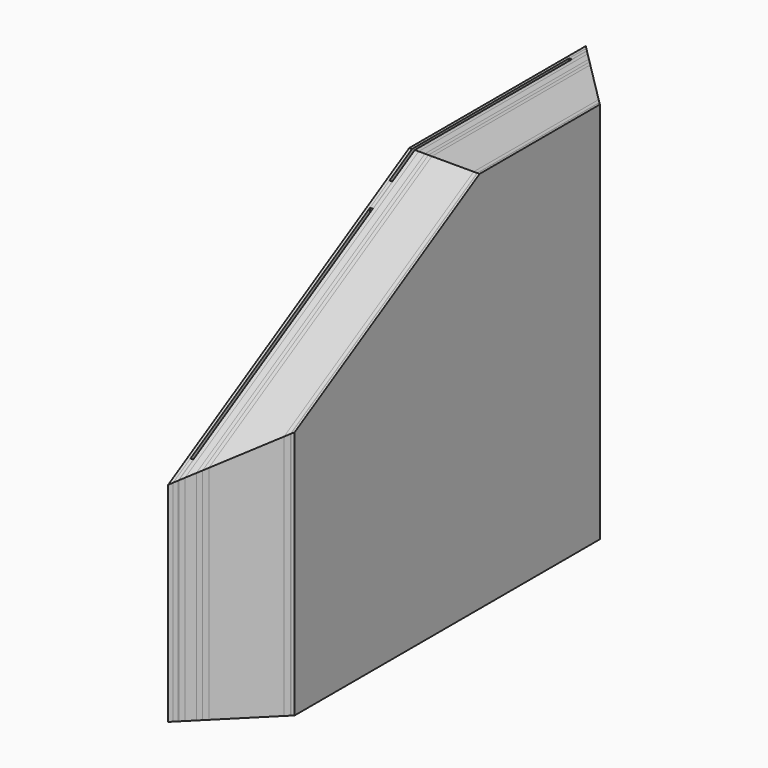
from build123d import *

# Parameters (mm, degrees)
F1_DEPTH  = 6
F2_DEPTH  = 1
F3_DEPTH  = 10
F4_DEPTH  = 120
F5_DEPTH  = 10
F6_DEPTH  = 10
F7_DEPTH  = 18
F8_DEPTH  = 10
F9_DEPTH  = 1
F10_W     = 70
F10_H     = 1100
F11_DEPTH = 8
F13_DEPTH = 8
F15_DEPTH = 1100.001
F17_DEPTH = 1100.001


with BuildPart() as f1:
    # F0 (on Right) → F1 (new body)
    with BuildSketch(Plane.YZ):
        Polygon((0, 600), (0, 0), (1500, 0), (1500, 1100), (866.0254037844, 1100), align=None)
    extrude(amount=F1_DEPTH)


with BuildPart() as f2:
    # F2 (new): a face of the model
    f2_faces = [f1.part.faces().sort_by_distance(p)[0] for p in [
        (0, 819.6757626206, 492.1036143057),
    ]]
    extrude(f2_faces, amount=F2_DEPTH)


with BuildPart() as f3:
    # F3 (new): a face of the model
    f3_faces = [f2.part.faces().sort_by_distance(p)[0] for p in [
        (-1, 819.6757626206, 492.1036143057),
    ]]
    extrude(f3_faces, amount=F3_DEPTH)


with BuildPart() as f4:
    # F4 (new): a face of the model
    f4_faces = [f3.part.faces().sort_by_distance(p)[0] for p in [
        (-11, 819.6757626206, 492.1036143057),
    ]]
    extrude(f4_faces, amount=F4_DEPTH)


with BuildPart() as f5:
    # F5 (new): a face of the model
    f5_faces = [f4.part.faces().sort_by_distance(p)[0] for p in [
        (-131, 819.6757626206, 492.1036143057),
    ]]
    extrude(f5_faces, amount=F5_DEPTH)


with BuildPart() as f6:
    # F6 (new): a face of the model
    f6_faces = [f5.part.faces().sort_by_distance(p)[0] for p in [
        (-141, 819.6757626206, 492.1036143057),
    ]]
    extrude(f6_faces, amount=F6_DEPTH)


with BuildPart() as f7:
    # F7 (new): a face of the model
    f7_faces = [f6.part.faces().sort_by_distance(p)[0] for p in [
        (-151, 819.6757626206, 492.1036143057),
    ]]
    extrude(f7_faces, amount=F7_DEPTH)


with BuildPart() as f8:
    # F8 (new): a face of the model
    f8_faces = [f7.part.faces().sort_by_distance(p)[0] for p in [
        (-169, 819.6757626206, 492.1036143057),
    ]]
    extrude(f8_faces, amount=F8_DEPTH)


with BuildPart() as f9:
    # F9 (new): a face of the model
    f9_faces = [f8.part.faces().sort_by_distance(p)[0] for p in [
        (-179, 819.6757626206, 492.1036143057),
    ]]
    extrude(f9_faces, amount=F9_DEPTH)


with BuildPart() as f11:
    # F10 (on face) → F11 (new body)
    with BuildSketch(Plane(origin=(-180, 0, 0), x_dir=(0, -1, 0), z_dir=(-1, 0, 0))):
        with Locations((-1465, 550)):
            Rectangle(F10_W, F10_H)
    extrude(amount=F11_DEPTH)


with BuildPart() as f11b:
    # F10 (on face) → F11, piece 2 (new body)
    with BuildSketch(Plane(origin=(-180, 0, 0), x_dir=(0, -1, 0), z_dir=(-1, 0, 0))):
        Polygon((-785, 1053.2199613139), (-785, 0), (-715, 0), (-715, 1012.8054424706), align=None)
    extrude(amount=F11_DEPTH)


with BuildPart() as f11c:
    # F10 (on face) → F11, piece 3 (new body)
    with BuildSketch(Plane(origin=(-180, 0, 0), x_dir=(0, -1, 0), z_dir=(-1, 0, 0))):
        Polygon((-70, 640.4145188433), (-70, 0), (0, 0), (0, 600), align=None)
    extrude(amount=F11_DEPTH)


with BuildPart() as f13:
    # F12 (on face) → F13 (new body)
    with BuildSketch(Plane(origin=(-188, 0, 0), x_dir=(0, -1, 0), z_dir=(-1, 0, 0))):
        Polygon((-866.0254037844, 1100), (-1500, 1100), (-1500, 0), (0, 0), (0, 600), align=None)
    extrude(amount=F13_DEPTH)


with BuildPart() as f15_tool:
    # F14 (on face) → F15 (new body, through all)
    with BuildSketch(Plane.XY.offset(1100)):
        Polygon((6, 1500), (-196, 1500), (6, 1298), align=None)
    extrude(amount=-F15_DEPTH)


with BuildPart() as f1_1:
    add(f1.part)

    # F15: cut by f15_tool
    add(f15_tool.part, mode=Mode.SUBTRACT)


with BuildPart() as f2_1:
    add(f2.part)

    # F15: cut by f15_tool
    add(f15_tool.part, mode=Mode.SUBTRACT)


with BuildPart() as f3_1:
    add(f3.part)

    # F15: cut by f15_tool
    add(f15_tool.part, mode=Mode.SUBTRACT)


with BuildPart() as f4_1:
    add(f4.part)

    # F15: cut by f15_tool
    add(f15_tool.part, mode=Mode.SUBTRACT)


with BuildPart() as f5_1:
    add(f5.part)

    # F15: cut by f15_tool
    add(f15_tool.part, mode=Mode.SUBTRACT)


with BuildPart() as f6_1:
    add(f6.part)

    # F15: cut by f15_tool
    add(f15_tool.part, mode=Mode.SUBTRACT)


with BuildPart() as f7_1:
    add(f7.part)

    # F15: cut by f15_tool
    add(f15_tool.part, mode=Mode.SUBTRACT)


with BuildPart() as f8_1:
    add(f8.part)

    # F15: cut by f15_tool
    add(f15_tool.part, mode=Mode.SUBTRACT)


with BuildPart() as f9_1:
    add(f9.part)

    # F15: cut by f15_tool
    add(f15_tool.part, mode=Mode.SUBTRACT)


with BuildPart() as f11_1:
    add(f11.part)

    # F15: cut by f15_tool
    add(f15_tool.part, mode=Mode.SUBTRACT)


with BuildPart() as f13_1:
    add(f13.part)

    # F15: cut by f15_tool
    add(f15_tool.part, mode=Mode.SUBTRACT)


with BuildPart() as f17_tool:
    # F16 (on face) → F17 (new body, through all)
    with BuildSketch(Plane(origin=(0, 0, 0), x_dir=(1, 0, 0), z_dir=(0, 0, -1))):
        Polygon((6, 0), (-196, 0), (6, -202), align=None)
    extrude(amount=-F17_DEPTH)


with BuildPart() as f1_2:
    add(f1_1.part)

    # F17: cut by f17_tool
    add(f17_tool.part, mode=Mode.SUBTRACT)


with BuildPart() as f2_2:
    add(f2_1.part)

    # F17: cut by f17_tool
    add(f17_tool.part, mode=Mode.SUBTRACT)


with BuildPart() as f3_2:
    add(f3_1.part)

    # F17: cut by f17_tool
    add(f17_tool.part, mode=Mode.SUBTRACT)


with BuildPart() as f4_2:
    add(f4_1.part)

    # F17: cut by f17_tool
    add(f17_tool.part, mode=Mode.SUBTRACT)


with BuildPart() as f5_2:
    add(f5_1.part)

    # F17: cut by f17_tool
    add(f17_tool.part, mode=Mode.SUBTRACT)


with BuildPart() as f6_2:
    add(f6_1.part)

    # F17: cut by f17_tool
    add(f17_tool.part, mode=Mode.SUBTRACT)


with BuildPart() as f7_2:
    add(f7_1.part)

    # F17: cut by f17_tool
    add(f17_tool.part, mode=Mode.SUBTRACT)


with BuildPart() as f8_2:
    add(f8_1.part)

    # F17: cut by f17_tool
    add(f17_tool.part, mode=Mode.SUBTRACT)


with BuildPart() as f9_2:
    add(f9_1.part)

    # F17: cut by f17_tool
    add(f17_tool.part, mode=Mode.SUBTRACT)


with BuildPart() as f11c_1:
    add(f11c.part)

    # F17: cut by f17_tool
    add(f17_tool.part, mode=Mode.SUBTRACT)


with BuildPart() as f13_2:
    add(f13_1.part)

    # F17: cut by f17_tool
    add(f17_tool.part, mode=Mode.SUBTRACT)


solid = Compound([f11b.part, f11_1.part, f1_2.part, f2_2.part, f3_2.part, f4_2.part, f5_2.part, f6_2.part, f7_2.part, f8_2.part, f9_2.part, f11c_1.part, f13_2.part])
